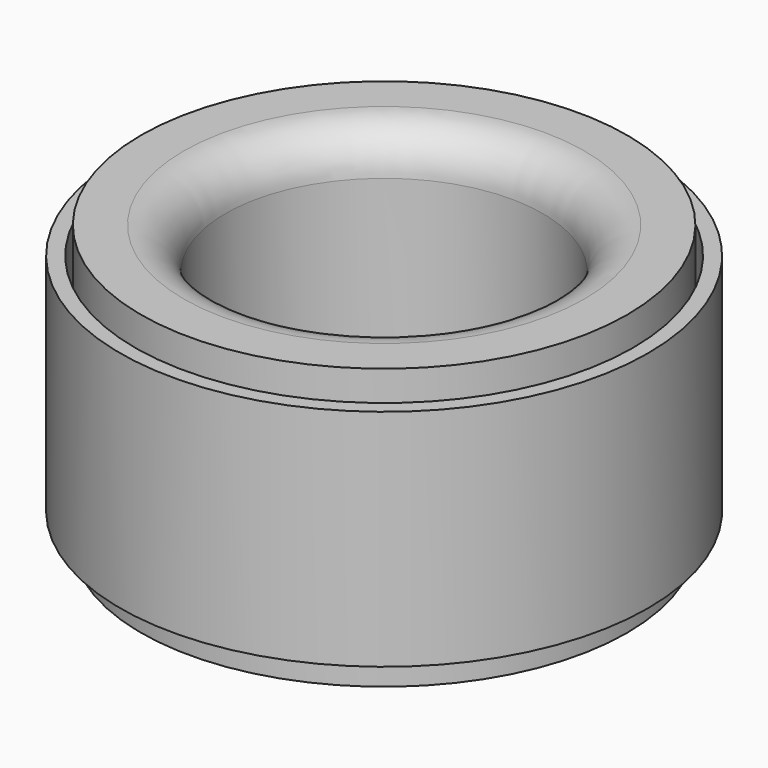
from build123d import *

# Parameters (mm, degrees)
F2_R = 2.54


with BuildPart() as f1:
    # F0 (on Front) → F1 (revolve)
    with BuildSketch(Plane.XZ):
        Polygon((26.7984219617, 3.5442614616), (26.7984219617, 11.1642614616), (21.6506298458, 11.1642614616), (21.6506298458, -5.9417629211), (26.7984219617, -5.9417629211), (26.7984219617, 1.6782370789), (24.1413731128, 1.6782370789), (24.1413731128, 3.5442614616), align=None)
    revolve(axis=Axis((11.9449845724, 0, 2.0704427734), (0, 0, -1)))

    # F2
    f2_edges = [f1.edges().sort_by_distance(p)[0] for p in [
        (2.239339, 0, 11.164261),
        (2.239339, 0, -5.941763),
    ]]
    fillet(f2_edges, radius=F2_R)


with BuildPart() as f1b:
    # F0 (on Front) → F1, piece 2 (revolve)
    with BuildSketch(Plane.XZ):
        Polygon((28.0732959509, 9.5104135346), (27.162745595, 9.5104135346), (27.162745595, 3.1604135346), (24.5966482908, 3.1604135346), (24.5966482908, 2.1444135346), (27.162745595, 2.1444135346), (27.162745595, -4.2055864654), (28.0732959509, -4.2055864654), align=None)
    revolve(axis=Axis((11.9449845724, 0, 2.0704427734), (0, 0, -1)))


solid = Compound([f1.part, f1b.part])
